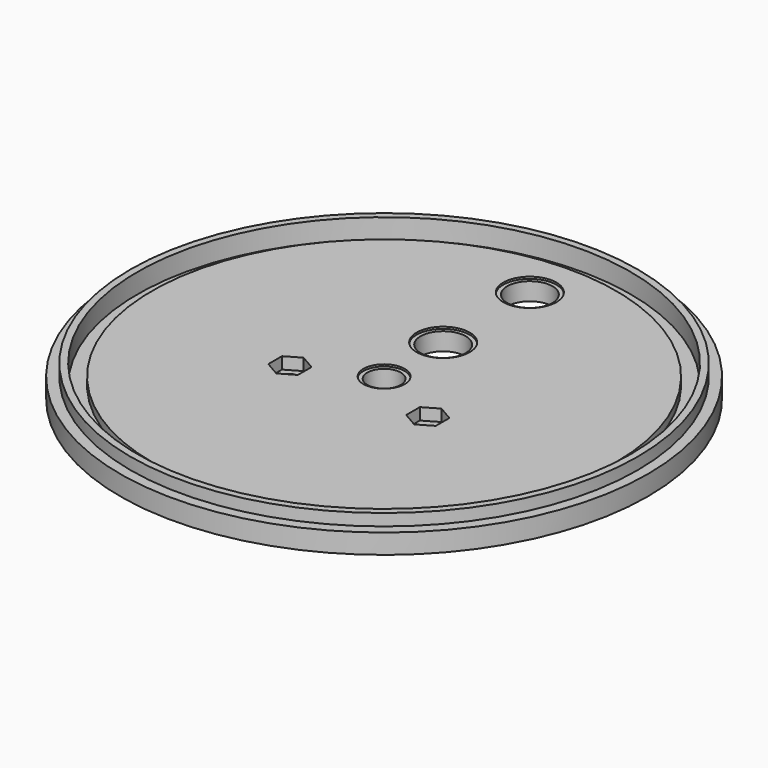
from build123d import *

# Parameters (mm, degrees)
F0_R      = 67
F1_DEPTH  = 2.5
F3_R      = 64.375
F3_R_2    = 62.625
F4_DEPTH  = 3
F5_R      = 62.625
F5_R_2    = 58.875
F6_DEPTH  = 2
F7_R      = 4.25
F8_DEPTH  = 5.001
F9_R      = 5.75
F10_DEPTH = 5.001
F11_R     = 5.75
F12_DEPTH = 5.001
F14_R     = 2.1
F15_DEPTH = 5.001
F16_R     = 5.25
F18_DEPTH = 0.5
F19_R     = 6.75
F20_DEPTH = 0.5
F11_R_2   = 6.75
F21_DEPTH = 0.5
F22_DEPTH = 3


with BuildPart() as f1:
    # F0 (on Top) → F1 (new body, symmetric)
    with BuildSketch(Plane.XY):
        Circle(F0_R)
    extrude(amount=F1_DEPTH, both=True)

    # F3 (on face) → F4 (join)
    with BuildSketch(Plane.XY.offset(2.5)):
        Circle(F3_R)
        Circle(F3_R_2, mode=Mode.SUBTRACT)
    extrude(amount=F4_DEPTH)

    # F5 (on face) → F6 (cut)
    with BuildSketch(Plane.XY.offset(2.5)):
        Circle(F5_R)
        Circle(F5_R_2, mode=Mode.SUBTRACT)
    extrude(amount=-F6_DEPTH, mode=Mode.SUBTRACT)

    # F7 (on face) → F8 (cut, through all)
    with BuildSketch(Plane.XY.offset(2.5)):
        Circle(F7_R)
    extrude(amount=-F8_DEPTH, mode=Mode.SUBTRACT)

    # F9 (on face) → F10 (cut, through all)
    with BuildSketch(Plane.XY.offset(2.5)):
        with Locations((0, 18.75)):
            Circle(F9_R)
    extrude(amount=-F10_DEPTH, mode=Mode.SUBTRACT)

    # F11 (on face) → F12 (cut, through all)
    with BuildSketch(Plane.XY.offset(2.5)):
        with Locations((0, 46.25)):
            Circle(F11_R)
    extrude(amount=-F12_DEPTH, mode=Mode.SUBTRACT)

    # F14 (on face) → F15 (cut, through all)
    with BuildSketch(Plane.XY.offset(2.5)):
        with Locations((-17.709117, -8)):
            Circle(F14_R)
        with Locations((17.709117, -8)):
            Circle(F14_R)
    extrude(amount=-F15_DEPTH, mode=Mode.SUBTRACT)

    # F16 (on face) → F18 (cut)
    with BuildSketch(Plane.XY.offset(2.5)):
        Circle(F16_R)
    extrude(amount=-F18_DEPTH, mode=Mode.SUBTRACT)

    # F19 (on face) → F20 (cut)
    with BuildSketch(Plane.XY.offset(2.5)):
        with Locations((0, 18.75)):
            Circle(F19_R)
    extrude(amount=-F20_DEPTH, mode=Mode.SUBTRACT)

    # F11 (on face) → F21 (cut)
    with BuildSketch(Plane.XY.offset(2.5)):
        with Locations((0, 46.25)):
            Circle(F11_R_2)
        with Locations((0, 46.25)):
            Circle(F11_R, mode=Mode.SUBTRACT)
    extrude(amount=-F21_DEPTH, mode=Mode.SUBTRACT)

    # F17 (on face) → F22 (cut)
    with BuildSketch(Plane.XY.offset(2.5)):
        Polygon((-13.75, -10.165064), (-13.75, -5.834936), (-17.5, -3.669873), (-21.25, -5.834936), (-21.25, -10.165064), (-17.5, -12.330127), align=None)
        Polygon((21.25, -10.165064), (21.25, -5.834936), (17.5, -3.669873), (13.75, -5.834936), (13.75, -10.165064), (17.5, -12.330127), align=None)
    extrude(amount=-F22_DEPTH, mode=Mode.SUBTRACT)


solid = f1.part
